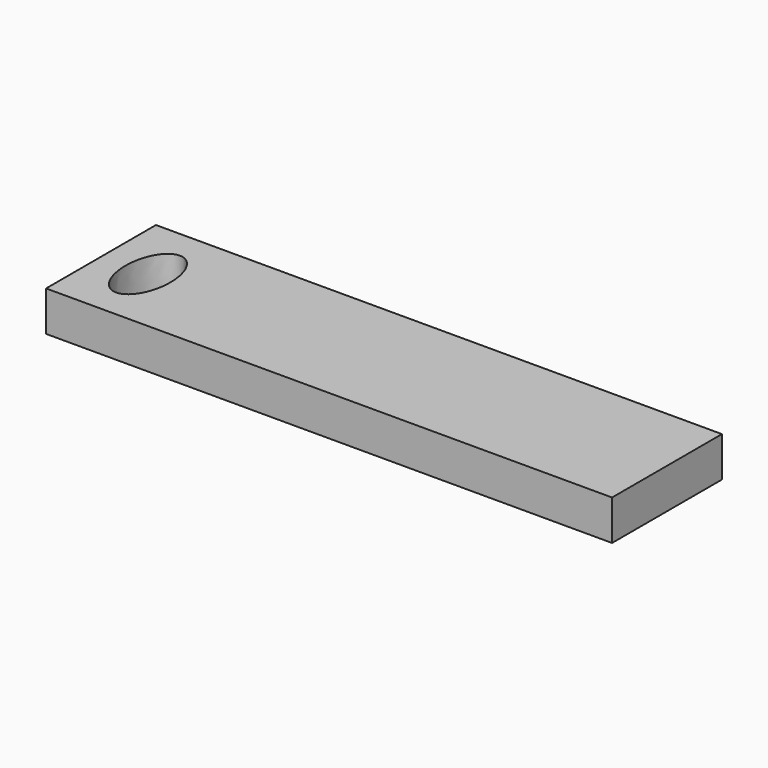
from build123d import *

# Parameters (mm, degrees)
F0_W     = 40.7
F0_H     = 9.875
F1_DEPTH = 2.88


with BuildPart() as f1:
    # F0 (on Top) → F1 (new body)
    with BuildSketch(Plane.XY):
        Rectangle(F0_W, F0_H)
        with BuildLine():
            add(Edge.make_bspline(
                [(-16.9756039977, 2.8678886592), (-19.7820491915, 2.8678886592), (-18.3788265946, -1.4339443296), (-16.9756039977, -5.7357773185), (-15.5723814008, -1.4339443296), (-14.1691588039, 2.8678886592), (-16.9756039977, 2.8678886592)],
                knots=[0, 0, 0, 2.0943951024, 2.0943951024, 4.1887902048, 4.1887902048, 6.2831853072, 6.2831853072, 6.2831853072], degree=2, weights=[1, 0.5, 1, 0.5, 1, 0.5, 1]))
        make_face(mode=Mode.SUBTRACT)
    extrude(amount=F1_DEPTH)


solid = f1.part
